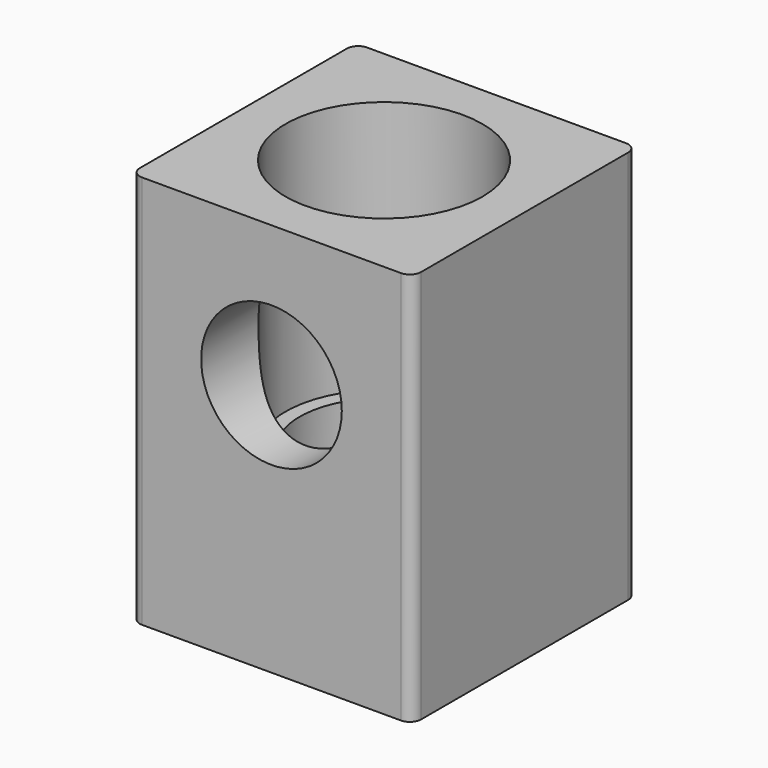
from build123d import *

# Parameters (mm, degrees)
F0_W     = 50
F0_H     = 50
F0_R     = 15
F1_DEPTH = 70
F2_R     = 12.5
F3_DEPTH = 25
F4_R     = 17.5
F5_DEPTH = 45
F6_R     = 17.5
F7_DEPTH = 10
F8_R     = 2


with BuildPart() as f1:
    # F0 (on Top) → F1 (new body)
    with BuildSketch(Plane.XY):
        Rectangle(F0_W, F0_H)
        Circle(F0_R, mode=Mode.SUBTRACT)
    extrude(amount=F1_DEPTH)

    # F2 (on face) → F3 (cut)
    with BuildSketch(Plane.XZ.offset(25)):
        with Locations((0, 45)):
            Circle(F2_R)
    extrude(amount=-F3_DEPTH, mode=Mode.SUBTRACT)

    # F4 (on face) → F5 (cut)
    with BuildSketch(Plane.XY.offset(70)):
        Circle(F4_R)
    extrude(amount=-F5_DEPTH, mode=Mode.SUBTRACT)

    # F6 (on face) → F7 (cut)
    with BuildSketch(Plane(origin=(0, 0, 0), x_dir=(1, 0, 0), z_dir=(0, 0, -1))):
        Circle(F6_R)
    extrude(amount=-F7_DEPTH, mode=Mode.SUBTRACT)

    # F8
    f8_edges = [f1.edges().sort_by_distance(p)[0] for p in [
        (-25, -25, 35),
        (25, -25, 35),
        (25, 25, 35),
        (-25, 25, 35),
    ]]
    fillet(f8_edges, radius=F8_R)


solid = f1.part
